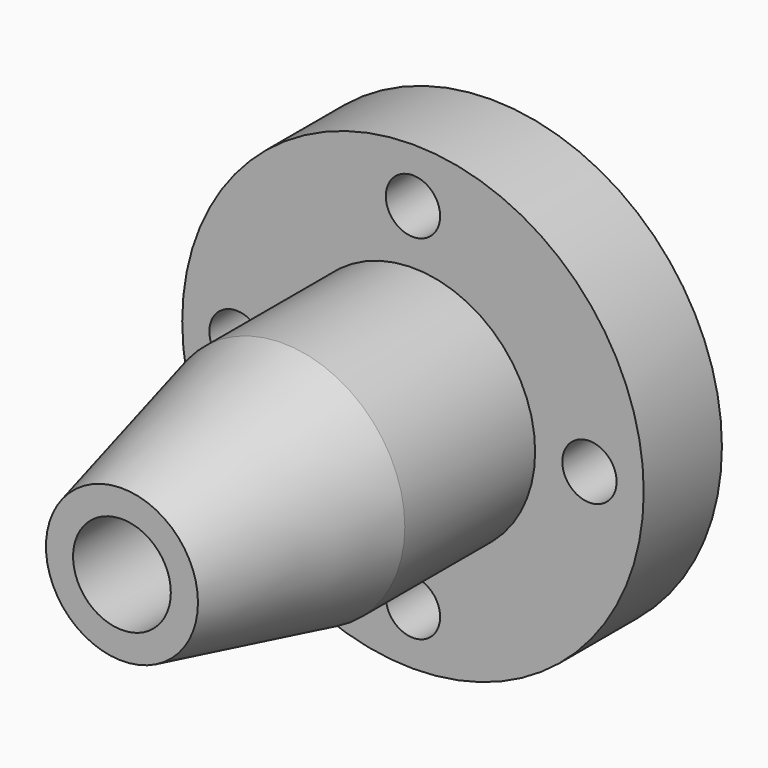
from build123d import *

# Parameters (mm, degrees)
F2_R     = 5
F3_DEPTH = 85.001


with BuildPart() as f1:
    # F0 (on Top) → F1 (revolve)
    with BuildSketch(Plane.XY):
        Polygon((9, 41.847162), (9, -43.152838), (14, -43.152838), (22.5, -6.152838), (22.5, 23.847162), (42.5, 23.847162), (42.5, 41.847162), align=None)
    revolve(axis=Axis((0, 0.725804, 0), (0, 1, 0)))

    # F2 (on face) → F3 (cut, through all)
    with BuildSketch(Plane(origin=(0, 41.847162, 0), x_dir=(-1, 0, 0), z_dir=(0, 1, 0))):
        with Locations((-32.5, 0)):
            Circle(F2_R)
        with Locations((0, -32.5)):
            Circle(F2_R)
        with Locations((32.5, 0)):
            Circle(F2_R)
        with Locations((0, 32.5)):
            Circle(F2_R)
    extrude(amount=-F3_DEPTH, mode=Mode.SUBTRACT)


solid = f1.part
